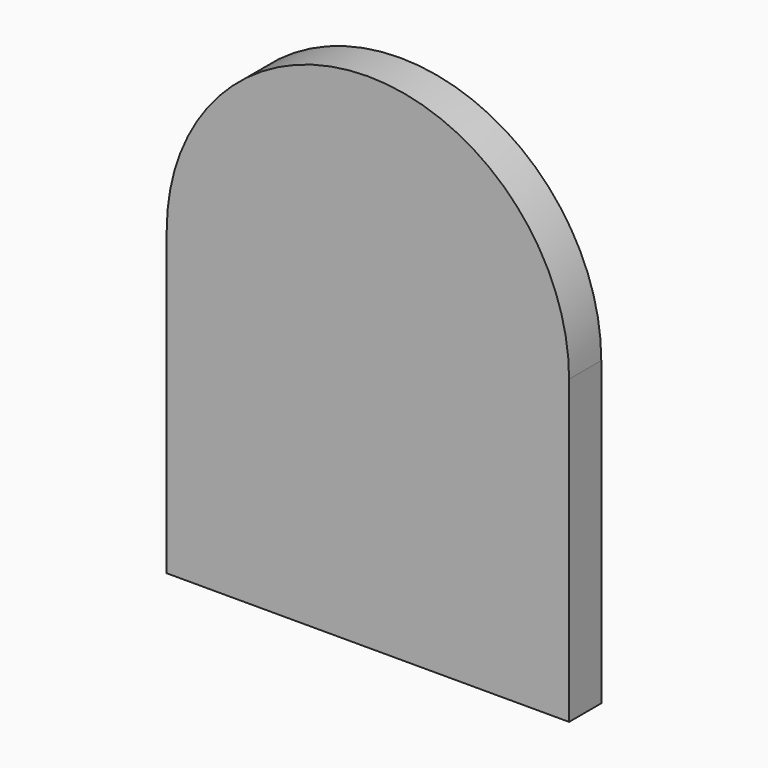
from build123d import *

# Parameters (mm, degrees)
F1_DEPTH = 2


with BuildPart() as f1:
    # F0 (on Front) → F1 (new body)
    with BuildSketch(Plane.XZ):
        with BuildLine():
            Line((10, -15), (10, 0))
            ThreePointArc((10, 0), (0, -10), (-10, 0))
            Line((-10, 0), (-10, -15))
            Line((-10, -15), (10, -15))
        make_face()
        with BuildLine():
            ThreePointArc((-10, 0), (0, -10), (10, 0))
            ThreePointArc((10, 0), (0, 10), (-10, 0))
        make_face()
    extrude(amount=F1_DEPTH)


solid = f1.part
